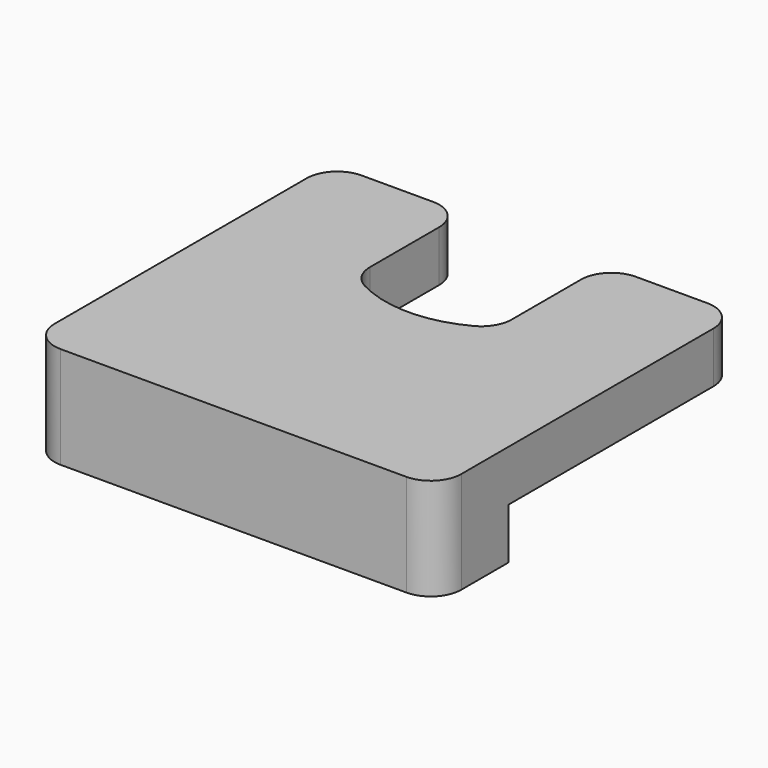
from build123d import *

# Parameters (mm, degrees)
F1_DEPTH = 12.7
F2_W     = 50.427316
F2_H     = 6.3497
F3_DEPTH = 58.42


with BuildPart() as f1:
    # F0 (on Top) → F1 (new body)
    with BuildSketch(Plane.XY):
        with BuildLine():
            Line((-21.542007, -25.352007), (0, -25.352007))
            Line((0, -25.352007), (21.542005, -25.352007))
            ThreePointArc((21.542005, -25.352007), (24.236082, -24.236084), (25.352005, -21.542007))
            Line((25.352005, -21.542007), (25.352005, 17.732005))
            ThreePointArc((25.352005, 17.732005), (24.236082, 20.426082), (21.542005, 21.542005))
            Line((21.542005, 21.542005), (12.648314, 21.542005))
            ThreePointArc((12.648314, 21.542005), (9.954237, 20.426082), (8.838314, 17.732005))
            Line((8.838314, 17.732005), (8.838314, 6.951964))
            ThreePointArc((8.838314, 6.951964), (8.289979, 4.982792), (6.802808, 3.580425))
            Line((6.802808, 3.580425), (6.743077, 3.548988))
            ThreePointArc((6.743077, 3.548988), (0, 1.882834), (-6.743077, 3.548988))
            Line((-6.743077, 3.548988), (-6.802808, 3.580425))
            ThreePointArc((-6.802808, 3.580425), (-8.289979, 4.982792), (-8.838314, 6.951964))
            Line((-8.838314, 6.951964), (-8.838314, 17.732005))
            ThreePointArc((-8.838314, 17.732005), (-9.954237, 20.426082), (-12.648314, 21.542005))
            Line((-12.648314, 21.542005), (-21.542007, 21.542005))
            ThreePointArc((-21.542007, 21.542005), (-24.236084, 20.426082), (-25.352007, 17.732005))
            Line((-25.352007, 17.732005), (-25.352007, -21.542007))
            ThreePointArc((-25.352007, -21.542007), (-24.236084, -24.236084), (-21.542007, -25.352007))
        make_face()
    extrude(amount=F1_DEPTH)

    # F2 (on face) → F3 (cut)
    with BuildSketch(Plane.YZ.offset(25.352005)):
        with Locations((11.018203, 3.17485)):
            Rectangle(F2_W, F2_H)
    extrude(amount=-F3_DEPTH, mode=Mode.SUBTRACT)


solid = f1.part
